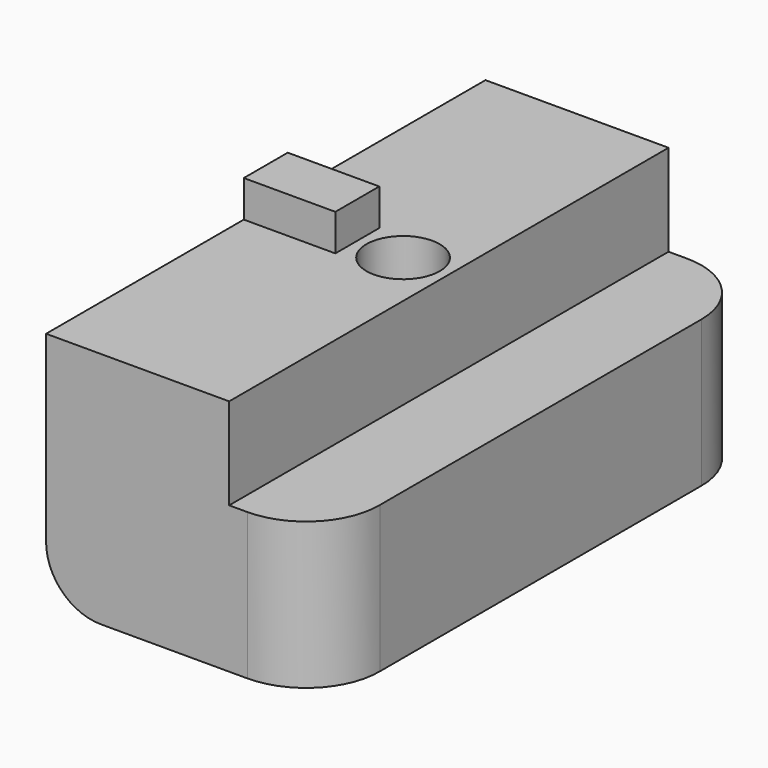
from build123d import *

# Parameters (mm, degrees)
F1_DEPTH = 8
F2_W     = 10
F2_H     = 30
F3_DEPTH = 5
F4_R     = 2
F5_DEPTH = 13.9
F6_DEPTH = 2
F7_R     = 3


with BuildPart() as f1:
    # F0 (on Top) → F1 (new body)
    with BuildSketch(Plane.XY):
        with BuildLine():
            Line((-11, 0), (0, 0))
            ThreePointArc((0, 0), (2.844279, 1.18741), (4, 4.044713))
            Line((4, 4.044713), (4, 26.008084))
            ThreePointArc((4, 26.008084), (2.82557, 28.831284), (0, 30))
            Line((0, 30), (-11, 30))
            Line((-11, 30), (-11, 0))
        make_face()
    extrude(amount=F1_DEPTH)

    # F2 (on face) → F3 (join)
    with BuildSketch(Plane.XY.offset(8)):
        with Locations((-6, 15)):
            Rectangle(F2_W, F2_H)
    extrude(amount=F3_DEPTH)

    # F4 (on face) → F5 (cut)
    with BuildSketch(Plane.XY.offset(13)):
        with Locations((-3.5, 15)):
            Circle(F4_R)
    extrude(amount=-F5_DEPTH, mode=Mode.SUBTRACT)

    # F4 (on face) → F6 (join)
    with BuildSketch(Plane.XY.offset(13)):
        Polygon((-6, 16.5), (-11, 16.5), (-11, 15), (-11, 13.5), (-6, 13.5), (-6, 15), align=None)
    extrude(amount=F6_DEPTH)

    # F7
    f7_edges = [f1.edges().sort_by_distance(p)[0] for p in [
        (-11, 15, 0),
    ]]
    fillet(f7_edges, radius=F7_R)


solid = f1.part
